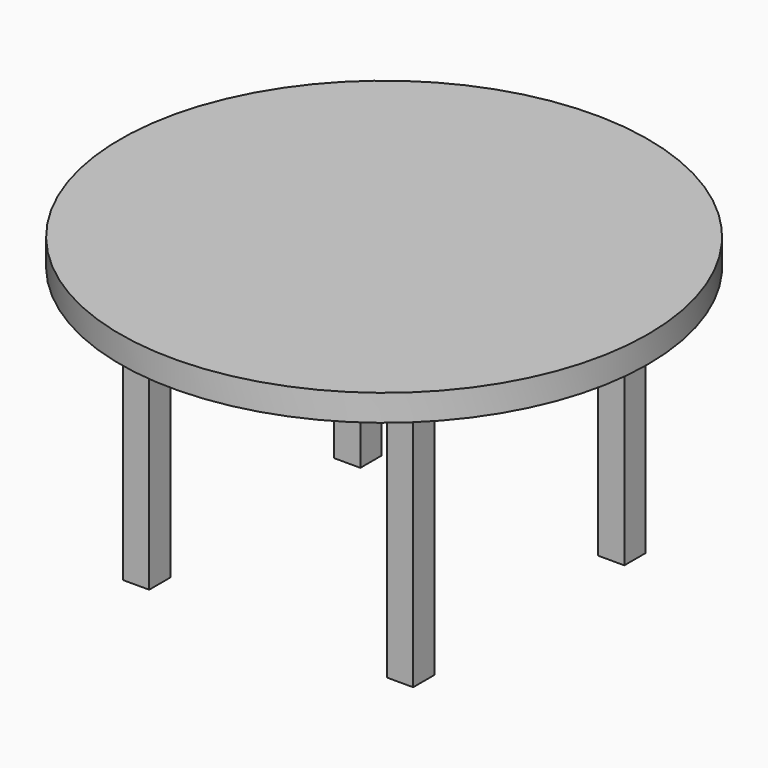
from build123d import *

# Parameters (mm, degrees)
F0_R     = 25.4
F1_DEPTH = 2.54
F2_W     = 2.54
F2_H     = 2.54
F3_DEPTH = 25.4
F4_W     = 2.54
F4_H     = 2.54
F5_DEPTH = 25.4
F7_W     = 0.635
F7_H     = 2.54
F8_DEPTH = 25.4


with BuildPart() as f1:
    # F0 (on Top) → F1 (new body)
    with BuildSketch(Plane.XY):
        Circle(F0_R)
    extrude(amount=F1_DEPTH)

    # F2 (on face) → F3 (join)
    with BuildSketch(Plane(origin=(0, 0, 0), x_dir=(1, 0, 0), z_dir=(0, 0, -1))):
        with Locations((12.7, -12.7)):
            Rectangle(F2_W, F2_H)
        with Locations((-12.7, -12.7)):
            Rectangle(F2_W, F2_H)
        with Locations((-12.7, 12.7)):
            Rectangle(F2_W, F2_H)
        with Locations((12.7, 12.7)):
            Rectangle(F2_W, F2_H)
    extrude(amount=F3_DEPTH)

    # F4 (on face) → F5 (join)
    with BuildSketch(Plane(origin=(0, -11.43, 0), x_dir=(-1, 0, 0), z_dir=(0, 1, 0))):
        with Locations((12.7, -1.27)):
            Rectangle(F4_W, F4_H)
    extrude(amount=F5_DEPTH)

    # F6: F1 across plane


with BuildPart() as f1_1:
    add(f1.part)
    add(f1.part.mirror(Plane.YZ))

    # F7 (on face) → F8 (join)
    with BuildSketch(Plane.YZ.offset(-11.43)):
        with Locations((-1.0795, -1.27)):
            Rectangle(F7_W, F7_H)
    extrude(amount=F8_DEPTH)

    # F9: F1 across plane


with BuildPart() as f1_2:
    add(f1_1.part)
    add(f1_1.part.mirror(Plane.XZ))


solid = f1_2.part
